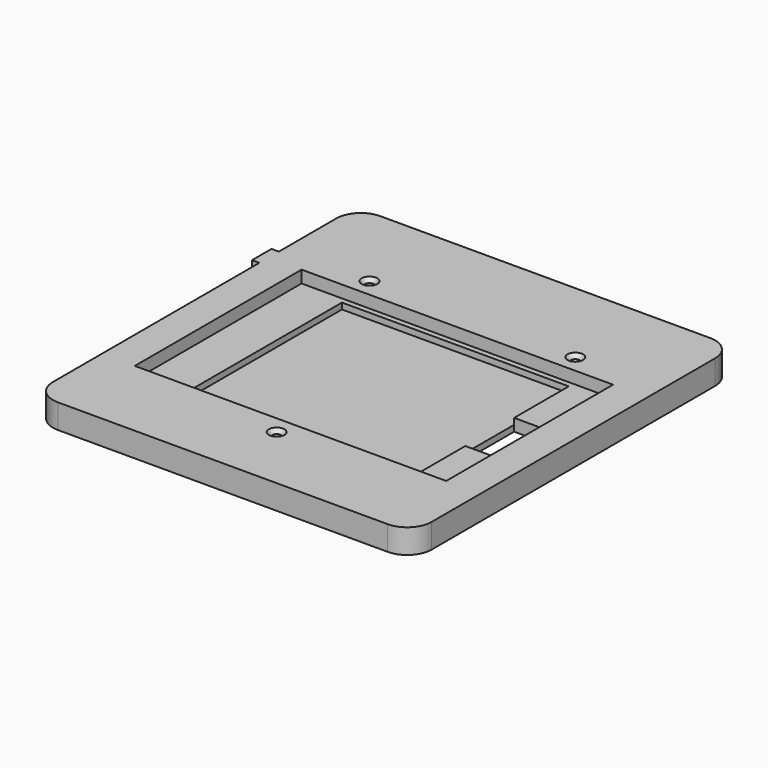
from build123d import *

# Parameters (mm, degrees)
F2_R           = 1.85
F2_W           = 3
F2_H           = 10
F3_DEPTH       = 10
F4_DEPTH       = 5
F5_DEPTH       = 7.5
F6_D           = 3.7
F6_CSINK_D     = 6.4
F6_CSINK_ANGLE = 78


with BuildPart() as f3:
    # F2 (on offset) → F3 (new body)
    with BuildSketch(Plane.XY.offset(10)):
        with BuildLine():
            ThreePointArc((77.65, 72.65), (74.7210678119, 79.7210678119), (67.65, 82.65))
            Line((67.65, 82.65), (-67.65, 82.65))
            ThreePointArc((-67.65, 82.65), (-74.7210678119, 79.7210678119), (-77.65, 72.65))
            Line((-77.65, 72.65), (-77.65, 43.15))
            Line((-77.65, 43.15), (-77.65, 33.15))
            Line((-77.65, 33.15), (-77.65, -72.65))
            ThreePointArc((-77.65, -72.65), (-74.7210678119, -79.7210678119), (-67.65, -82.65))
            Line((-67.65, -82.65), (67.65, -82.65))
            ThreePointArc((67.65, -82.65), (74.7210678119, -79.7210678119), (77.65, -72.65))
            Line((77.65, -72.65), (77.65, 72.65))
        make_face()
        with Locations((0, -55)):
            Circle(F2_R, mode=Mode.SUBTRACT)
        Polygon((-64.15, -47.55), (-64.15, 37.95), (63.55, 37.95), (63.55, 7.7), (63.55, -17.3), (63.55, -47.55), align=None, mode=Mode.SUBTRACT)
        with Locations((-42.2, 45.3)):
            Circle(F2_R, mode=Mode.SUBTRACT)
        with Locations((42.2, 45.3)):
            Circle(F2_R, mode=Mode.SUBTRACT)
        Polygon((63.55, 37.95), (-64.15, 37.95), (-64.15, -47.55), (63.55, -47.55), (63.55, -17.3), (47.2, -17.3), (47.2, -45.3), (-45.8, -45.3), (-45.8, 35.7), (47.2, 35.7), (47.2, 7.7), (63.55, 7.7), align=None)
        with Locations((-79.15, 38.15)):
            Rectangle(F2_W, F2_H)
        Polygon((47.2, -17.3), (47.2, 7.7), (47.2, 35.7), (-45.8, 35.7), (-45.8, -45.3), (47.2, -45.3), align=None)
        Polygon((47.2, -17.3), (47.2, 7.7), (47.2, 35.7), (-45.8, 35.7), (-45.8, -45.3), (47.2, -45.3), align=None)
    extrude(amount=-F3_DEPTH)

    # F2 (on offset) → F4 (cut)
    with BuildSketch(Plane.XY.offset(10)):
        Polygon((63.55, 37.95), (-64.15, 37.95), (-64.15, -47.55), (63.55, -47.55), (63.55, -17.3), (47.2, -17.3), (47.2, -45.3), (-45.8, -45.3), (-45.8, 35.7), (47.2, 35.7), (47.2, 7.7), (63.55, 7.7), align=None)
    extrude(amount=-F4_DEPTH, mode=Mode.SUBTRACT)

    # F2 (on offset) → F5 (cut)
    with BuildSketch(Plane.XY.offset(10)):
        Polygon((47.2, -17.3), (47.2, 7.7), (47.2, 35.7), (-45.8, 35.7), (-45.8, -45.3), (47.2, -45.3), align=None)
    extrude(amount=-F5_DEPTH, mode=Mode.SUBTRACT)

    # F6 (through all)
    with Locations(Plane.XY.offset(10)):
        with Locations((-42.2, 45.3), (42.2, 45.3), (0, -55)):
            CounterSinkHole(F6_D / 2, F6_CSINK_D / 2, counter_sink_angle=F6_CSINK_ANGLE)


solid = f3.part
